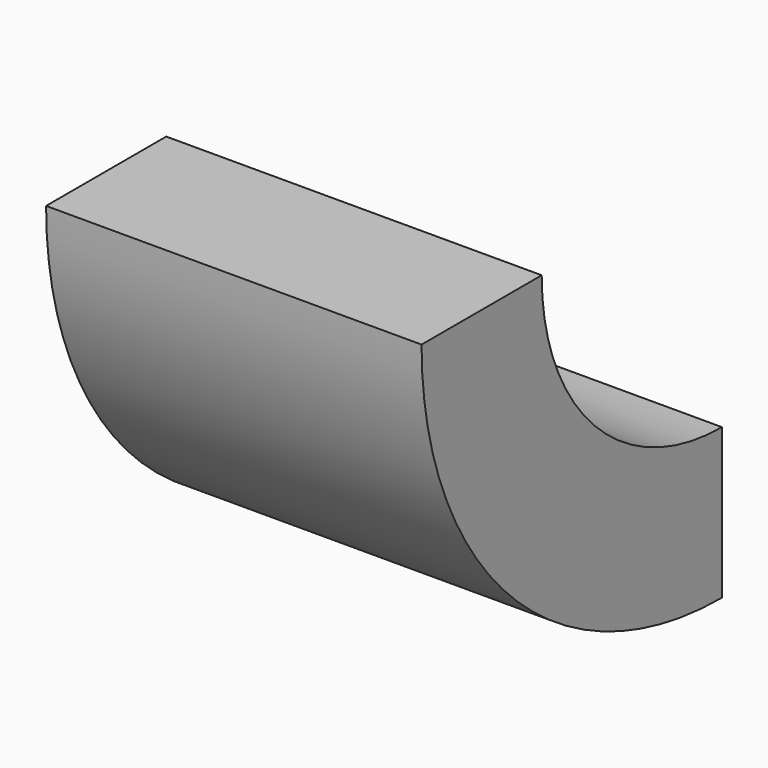
from build123d import *

# Parameters (mm, degrees)
BOX008_W      = 5
BOX008_H      = 10
BOX008_DEPTH  = 5
BOX007_W      = 5
BOX007_H      = 5
BOX007_DEPTH  = 10
TUBE003_R     = 5
TUBE003_R_2   = 3
TUBE003_DEPTH = 5


with BuildPart() as cube008:
    # Box008 → Box008 (new body)
    with BuildSketch(Plane(origin=(0, -2, 3), x_dir=(1, 0, 0), z_dir=(0, 0, 1))):
        with Locations((2.5, 5)):
            Rectangle(BOX008_W, BOX008_H)
    extrude(amount=BOX008_DEPTH)


with BuildPart() as cube007:
    # Box007 → Box007 (new body)
    with BuildSketch(Plane(origin=(0, 3, -2), x_dir=(1, 0, 0), z_dir=(0, 0, 1))):
        with Locations((2.5, 2.5)):
            Rectangle(BOX007_W, BOX007_H)
    extrude(amount=BOX007_DEPTH)


with BuildPart() as cut007:
    # Tube003 → Tube003 (new body)
    with BuildSketch(Plane(origin=(0, 3, 3), x_dir=(0, 0, -1), z_dir=(1, 0, 0))):
        Circle(TUBE003_R)
        Circle(TUBE003_R_2, mode=Mode.SUBTRACT)
    extrude(amount=TUBE003_DEPTH)

    # Cut006: cut Cube007
    add(cube007.part, mode=Mode.SUBTRACT)

    # Cut007: cut Cube008
    add(cube008.part, mode=Mode.SUBTRACT)


solid = cut007.part
